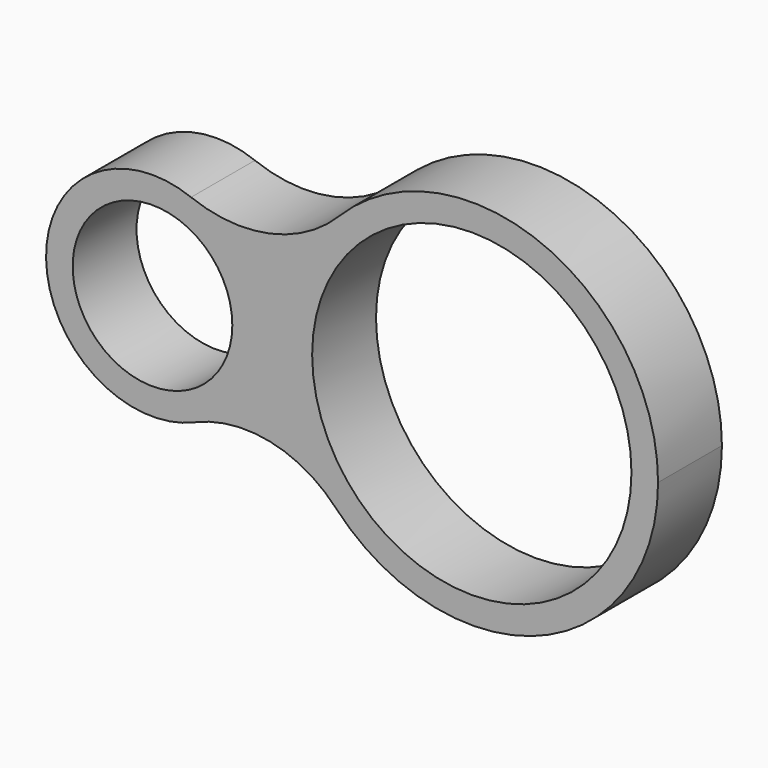
from build123d import *

# Parameters (mm, degrees)
F0_R     = 15
F0_R_2   = 30
F1_DEPTH = 15


with BuildPart() as f1:
    # F0 (on Front) → F1 (new body)
    with BuildSketch(Plane.XZ):
        with BuildLine():
            ThreePointArc((-23.175316, -18.364728), (-14.386495, -10.990608), (-11.09597, 0))
            ThreePointArc((-11.09597, 0), (-14.589644, 11.293415), (-23.850092, 18.641278))
            ThreePointArc((-23.850092, 18.641278), (-51.092646, -0.364624), (-23.175316, -18.364728))
        make_face()
        with Locations((-31.09597, 0)):
            Circle(F0_R, mode=Mode.SUBTRACT)
        with BuildLine():
            ThreePointArc((-23.850092, 18.641278), (-14.589644, 11.293415), (-11.09597, 0))
            ThreePointArc((-11.09597, 0), (-14.386495, -10.990608), (-23.175316, -18.364728))
            ThreePointArc((-23.175316, -18.364728), (-9.042619, -16.937632), (3.337154, -23.902611))
            ThreePointArc((3.337154, -23.902611), (-6.092708, 0.477784), (3.99921, 24.591664))
            ThreePointArc((3.99921, 24.591664), (-9.035618, 17.451877), (-23.850092, 18.641278))
        make_face()
        with BuildLine():
            ThreePointArc((63.90403, 0), (42.195593, 32.377992), (3.99921, 24.591664))
            ThreePointArc((3.99921, 24.591664), (-6.092708, 0.477784), (3.337154, -23.902611))
            ThreePointArc((3.337154, -23.902611), (41.752363, -32.556418), (63.90403, 0))
        make_face()
        with Locations((28.90403, 0)):
            Circle(F0_R_2, mode=Mode.SUBTRACT)
    extrude(amount=F1_DEPTH)


solid = f1.part
